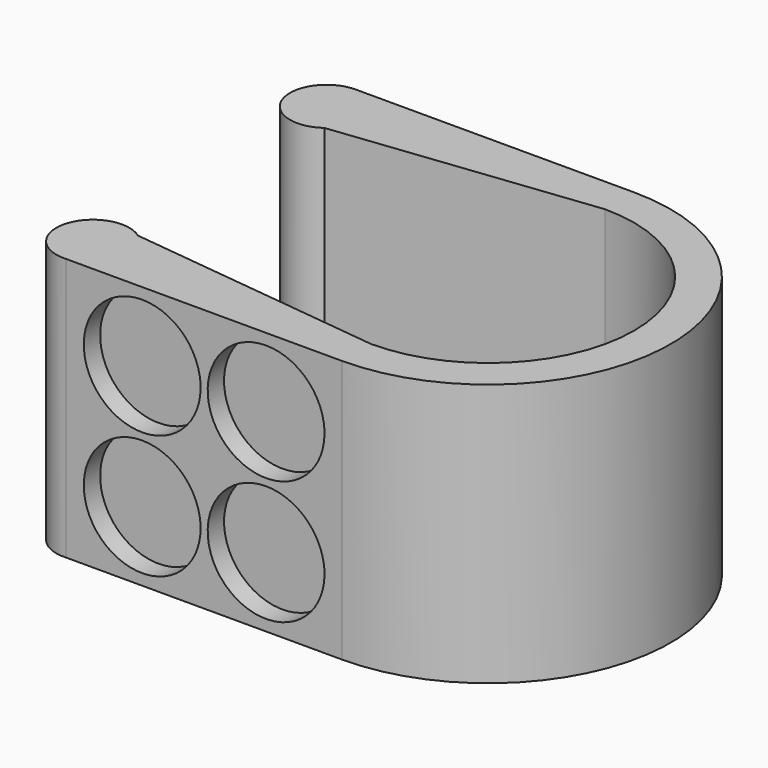
from build123d import *

# Parameters (mm, degrees)
F1_DEPTH = 18
F2_R     = 4
F3_DEPTH = 1.4


with BuildPart() as f1:
    # F0 (on Top) → F1 (new body)
    with BuildSketch(Plane.XY):
        with BuildLine():
            ThreePointArc((0, 10), (10, 0), (0, -10))
            Line((0, -10), (-17.59439, -7.979329))
            ThreePointArc((-17.59439, -7.979329), (-16.838188, -8.866441), (-16.566426, -10))
            ThreePointArc((-16.566426, -10), (-17.237867, -11.704809), (-18.891523, -12.493874))
            Line((-18.891523, -12.493874), (-0.004054, -12.499999))
            ThreePointArc((-0.004054, -12.499999), (12.5, 0), (-0.004054, 12.499999))
            Line((-0.004054, 12.499999), (-19.066426, 12.5))
            ThreePointArc((-19.066426, 12.5), (-17.298659, 11.767767), (-16.566426, 10))
            ThreePointArc((-16.566426, 10), (-16.838188, 8.866441), (-17.59439, 7.979329))
            Line((-17.59439, 7.979329), (0, 10))
        make_face()
        with BuildLine():
            ThreePointArc((-16.566426, -10), (-16.838188, -8.866441), (-17.59439, -7.979329))
            ThreePointArc((-17.59439, -7.979329), (-21.469212, -9.309624), (-18.891523, -12.493874))
            ThreePointArc((-18.891523, -12.493874), (-17.237867, -11.704809), (-16.566426, -10))
        make_face()
        with BuildLine():
            ThreePointArc((-19.066426, 12.5), (-21.443575, 9.225945), (-17.59439, 7.979329))
            ThreePointArc((-17.59439, 7.979329), (-16.838188, 8.866441), (-16.566426, 10))
            ThreePointArc((-16.566426, 10), (-17.298659, 11.767767), (-19.066426, 12.5))
        make_face()
    extrude(amount=F1_DEPTH)

    # F2 (on face) → F3 (cut)
    with BuildSketch(Plane(origin=(-0.004054, -12.499999, 0), x_dir=(1, -0.000324, 0), z_dir=(-0.000324, -1, 0))):
        with Locations((-13.686376, 4.757359)):
            Circle(F2_R)
        with Locations((-13.686376, 13.242641)):
            Circle(F2_R)
        with Locations((-5.201095, 13.242641)):
            Circle(F2_R)
        with Locations((-5.201095, 4.757359)):
            Circle(F2_R)
    extrude(amount=-F3_DEPTH, mode=Mode.SUBTRACT)


solid = f1.part
